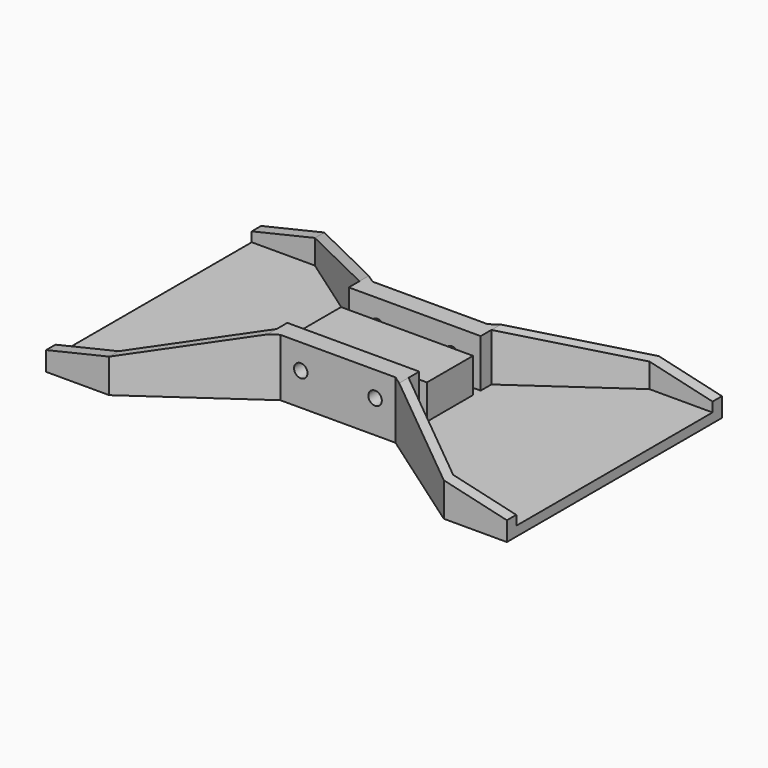
from build123d import *

# Parameters (mm, degrees)
F0_W     = 34.3586169891
F0_H     = 15
F1_DEPTH = 11.5
F2_DEPTH = 2.5
F3_DEPTH = 15
F5_DEPTH = 70
F6_R     = 1.75
F7_DEPTH = 50.001


with BuildPart() as f1:
    # F0 (on Top) → F1 (new body)
    with BuildSketch(Plane.XY):
        Rectangle(F0_W, F0_H)
    extrude(amount=F1_DEPTH)

    # F0 (on Top) → F2 (join)
    with BuildSketch(Plane.XY):
        Polygon((-43.5629601348, 31.9480635281), (-60, 31.9480635281), (-60, -31.9480635281), (-43.5629601348, -31.9480635281), (-17.1793084945, -13.474031764), (-17.1793084945, -10), (17.1793084945, -10), (17.1793084945, -13.474031764), (43.5629601348, -31.9480635281), (60, -31.9480635281), (60, 31.9480635281), (43.5629601348, 31.9480635281), (17.1793084945, 13.474031764), (17.1793084945, 10), (-17.1793084945, 10), (-17.1793084945, 13.474031764), align=None)
        Rectangle(F0_W, F0_H, mode=Mode.SUBTRACT)
    extrude(amount=F2_DEPTH)

    # F0 (on Top) → F3 (join)
    with BuildSketch(Plane.XY):
        Polygon((-43.5629601348, -31.9480635281), (-60, -31.9480635281), (-60, -35), (-43.5629601348, -35), (-15, -15), (15, -15), (43.5629601348, -35), (60, -35), (60, -31.9480635281), (43.5629601348, -31.9480635281), (17.1793084945, -13.474031764), (17.1793084945, -10), (-17.1793084945, -10), (-17.1793084945, -13.474031764), align=None)
        Polygon((15, 15), (-15, 15), (-43.5629601348, 35), (-60, 35), (-60, 31.9480635281), (-43.5629601348, 31.9480635281), (-17.1793084945, 13.474031764), (-17.1793084945, 10), (17.1793084945, 10), (17.1793084945, 13.474031764), (43.5629601348, 31.9480635281), (60, 31.9480635281), (60, 35), (43.5629601348, 35), align=None)
    extrude(amount=F3_DEPTH)

    # F4 (on face) → F5 (cut, through all)
    with BuildSketch(Plane.XZ.offset(35)):
        Polygon((-60, 15), (-60, 5), (-43.5629601348, 8.8385741302), (-43.5629601348, 15), align=None)
        Polygon((-43.5629601348, 15), (-43.5629601348, 8.8385741302), (-17.1793084945, 15), align=None)
        Polygon((17.1793084945, 15), (60, 5), (60, 15), align=None)
    extrude(amount=-F5_DEPTH, mode=Mode.SUBTRACT)

    # F6 (on face) → F7 (cut, through all)
    with BuildSketch(Plane.XZ.offset(15)):
        with Locations((-9.6793084945, 8.5)):
            Circle(F6_R)
        with Locations((9.6793084945, 8.5)):
            Circle(F6_R)
    extrude(amount=-F7_DEPTH, mode=Mode.SUBTRACT)


solid = f1.part
